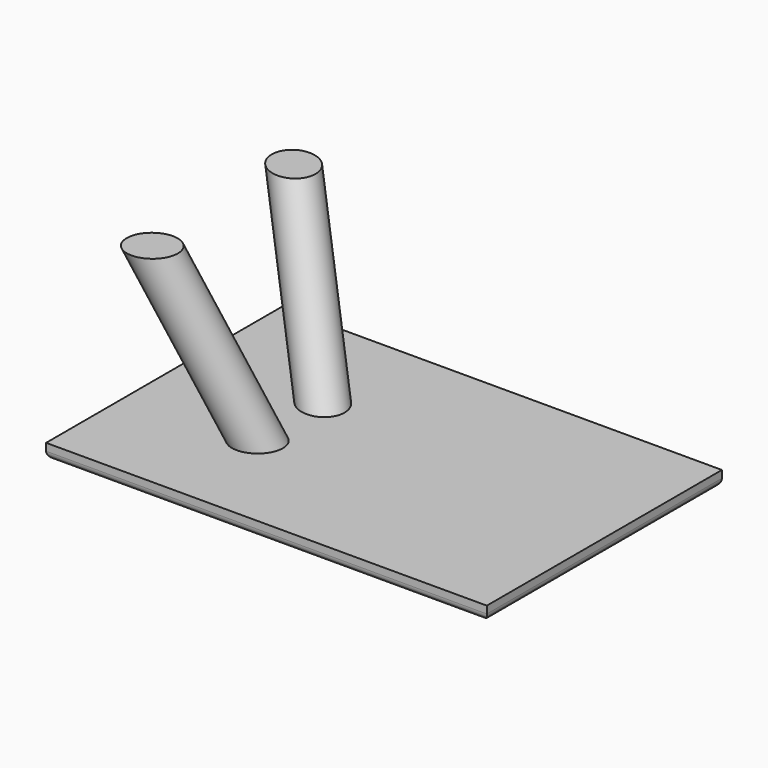
from build123d import *

# Parameters (mm, degrees)
BOX002_W                 = 60
BOX002_H                 = 40
BOX002_DEPTH             = 6
BOX001_W                 = 60
BOX001_H                 = 40
BOX001_DEPTH             = 4
CYLINDER_R               = 3
CYLINDER_DEPTH           = 30
CYLINDER_ROLL_ANGLE      = -15.421958
CYLINDER_PITCH_ANGLE     = 21.119305
CYLINDER_PLACEMENT_ANGLE = -2.129744
BOX_W                    = 60
BOX_H                    = 40
BOX_DEPTH                = 2
FILLET_R                 = 1


with BuildPart() as obj1:
    # Box002 → Box002 (new body)
    with BuildSketch(Plane(origin=(-30, -20, -4), x_dir=(1, 0, 0), z_dir=(0, 0, 1))):
        with Locations((30, 20)):
            Rectangle(BOX002_W, BOX002_H)
    extrude(amount=BOX002_DEPTH)


with BuildPart() as obj2:
    # Box001 → Box001 (new body)
    with BuildSketch(Plane(origin=(-30, -20, 25), x_dir=(1, 0, 0), z_dir=(0, 0, 1))):
        with Locations((30, 20)):
            Rectangle(BOX001_W, BOX001_H)
    extrude(amount=BOX001_DEPTH)


with BuildPart() as obj3:
    # Cylinder → Cylinder (new body)
    with BuildSketch(Plane.XY):
        Circle(CYLINDER_R)
    extrude(amount=CYLINDER_DEPTH)


with BuildPart() as obj3_1:
    # Cylinder roll: moved
    add(obj3.part.rotate(Axis((0, 0, 0), (1, 0, 0)), CYLINDER_ROLL_ANGLE))


with BuildPart() as obj3_2:
    # Cylinder pitch: moved
    add(obj3_1.part.rotate(Axis((0, 0, 0), (0, 1, 0)), CYLINDER_PITCH_ANGLE))


with BuildPart() as obj3_3:
    # Cylinder placement: moved
    add(obj3_2.part.moved(Location((12, 5, 0))).rotate(Axis((12, 5, 0), (0, 0, 1)), CYLINDER_PLACEMENT_ANGLE))

    # Cut: cut obj2
    add(obj2.part, mode=Mode.SUBTRACT)

    # Cut001: cut obj1
    add(obj1.part, mode=Mode.SUBTRACT)


with BuildPart() as part_mirroring001:
    # Part__Mirroring001: instance of obj3
    add(obj3_3.part.mirror(Plane(origin=(0, 0, 0), x_dir=(0, -1, 0), z_dir=(1, 0, 0))))


with BuildPart() as part_mirroring:
    # Part__Mirroring: instance of obj3
    add(obj3_3.part.mirror(Plane(origin=(0, 0, 0), x_dir=(1, 0, 0), z_dir=(0, 1, 0))))


with BuildPart() as part_mirroring002:
    # Part__Mirroring002: instance of Part__Mirroring
    add(part_mirroring.part.mirror(Plane(origin=(0, 0, 0), x_dir=(0, -1, 0), z_dir=(1, 0, 0))))


with BuildPart() as fillet_body:
    # Box → Box (new body)
    with BuildSketch(Plane(origin=(-30, -20, 0), x_dir=(1, 0, 0), z_dir=(0, 0, 1))):
        with Locations((30, 20)):
            Rectangle(BOX_W, BOX_H)
    extrude(amount=BOX_DEPTH)

    # Fillet
    fillet_edges = [fillet_body.edges().sort_by_distance(p)[0] for p in [
        (-30, 0, 0),
        (30, 0, 0),
        (0, -20, 0),
        (0, 20, 0),
    ]]
    fillet(fillet_edges, radius=FILLET_R)


solid = Compound([part_mirroring001.part, part_mirroring002.part, fillet_body.part])
